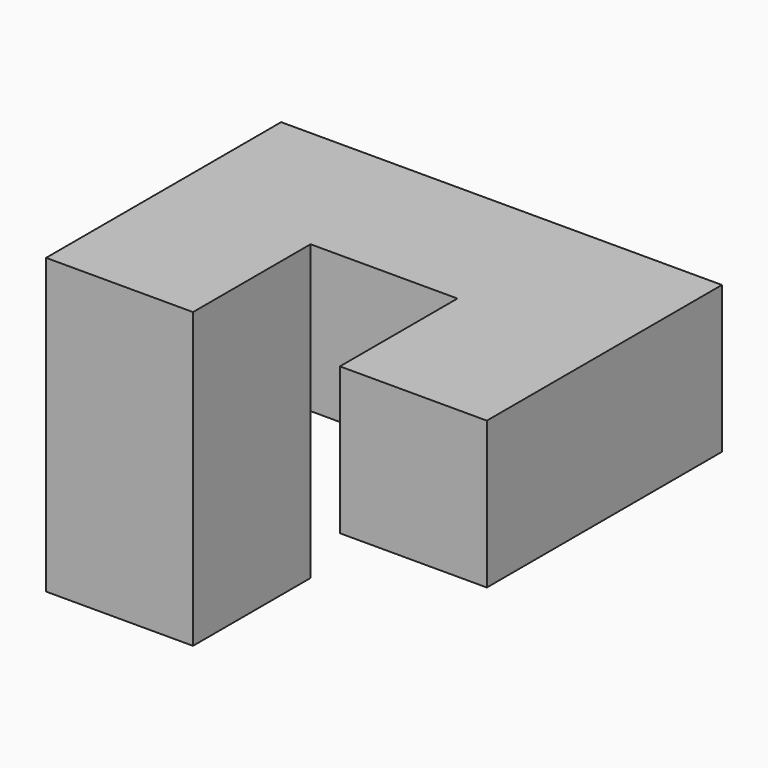
from build123d import *

# Parameters (mm, degrees)
F0_W     = 19.05
F0_H     = 19.05
F1_DEPTH = 38.1
F2_W     = 19.05
F2_H     = 19.05
F3_DEPTH = 19.05
F4_W     = 19.05
F4_H     = 19.05
F5_DEPTH = 38.1
F6_W     = 19.05
F6_H     = 19.05
F7_DEPTH = 19.05


with BuildPart() as f1:
    # F0 (on Top) → F1 (new body)
    with BuildSketch(Plane.XY):
        with Locations((-9.525, 9.525)):
            Rectangle(F0_W, F0_H)
    extrude(amount=F1_DEPTH)

    # F2 (on face) → F3 (join)
    with BuildSketch(Plane(origin=(0, 19.05, 0), x_dir=(-1, 0, 0), z_dir=(0, 1, 0))):
        with Locations((9.525, 28.575)):
            Rectangle(F2_W, F2_H)
    extrude(amount=F3_DEPTH)

    # F4 (on face) → F5 (join)
    with BuildSketch(Plane.YZ):
        with Locations((28.575, 28.575)):
            Rectangle(F4_W, F4_H)
    extrude(amount=F5_DEPTH)

    # F6 (on face) → F7 (join)
    with BuildSketch(Plane.XZ.offset(-19.05)):
        with Locations((28.575, 28.575)):
            Rectangle(F6_W, F6_H)
    extrude(amount=F7_DEPTH)


solid = f1.part
